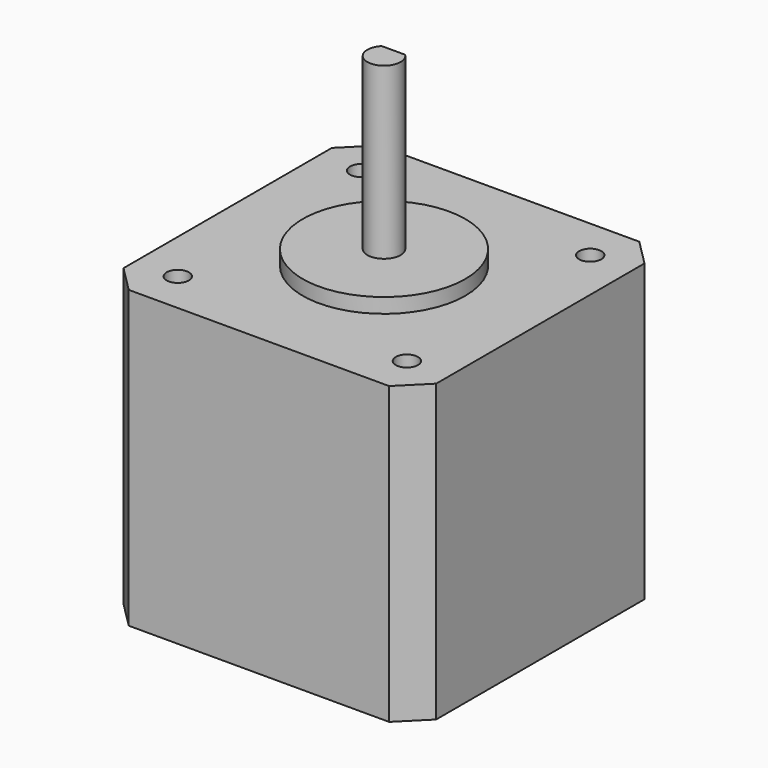
from build123d import *

# Parameters (mm, degrees)
PAD002_DEPTH   = 40
SKETCH006_R    = 1.5
HOLE_DEPTH     = 4.5
HOLE_TIPS_R    = 1.5
SKETCH002_R    = 1.5
HOLE001_DEPTH  = 4.5
HOLE001_TIPS_R = 1.5
SKETCH007_R    = 11
PAD003_DEPTH   = 2
PAD004_DEPTH   = 23


with BuildPart() as part:
    # Sketch005 → Pad002 (new body)
    with BuildSketch(Plane.XY):
        Polygon((-17.614466, 21.15), (17.614466, 21.15), (21.15, 17.614466), (21.15, -17.614466), (17.614466, -21.15), (-17.614466, -21.15), (-21.15, -17.614466), (-21.15, 17.614466), align=None)
    extrude(amount=PAD002_DEPTH)

    # Sketch006 (on Face10 of Pad002) → Hole (cut)
    with BuildSketch(Plane.XY.offset(40)):
        with Locations((15.5, 15.5)):
            Circle(SKETCH006_R)
        with Locations((-15.5, 15.5)):
            Circle(SKETCH006_R)
        with Locations((-15.5, -15.5)):
            Circle(SKETCH006_R)
        with Locations((15.5, -15.5)):
            Circle(SKETCH006_R)
    extrude(amount=-HOLE_DEPTH, mode=Mode.SUBTRACT)

    # Hole tips → Hole tip 1 section 0
    with BuildSketch(Plane.XY.offset(35.5), mode=Mode.PRIVATE) as hole_tip_1_s0:
        with Locations((15.5, 15.5)):
            Circle(HOLE_TIPS_R)
    loft([hole_tip_1_s0.sketch, Vertex(15.5, 15.5, 34.598709)], mode=Mode.SUBTRACT)

    # Hole tips → Hole tip 2 section 0
    with BuildSketch(Plane.XY.offset(35.5), mode=Mode.PRIVATE) as hole_tip_2_s0:
        with Locations((-15.5, 15.5)):
            Circle(HOLE_TIPS_R)
    loft([hole_tip_2_s0.sketch, Vertex(-15.5, 15.5, 34.598709)], mode=Mode.SUBTRACT)

    # Hole tips → Hole tip 3 section 0
    with BuildSketch(Plane.XY.offset(35.5), mode=Mode.PRIVATE) as hole_tip_3_s0:
        with Locations((-15.5, -15.5)):
            Circle(HOLE_TIPS_R)
    loft([hole_tip_3_s0.sketch, Vertex(-15.5, -15.5, 34.598709)], mode=Mode.SUBTRACT)

    # Hole tips → Hole tip 4 section 0
    with BuildSketch(Plane.XY.offset(35.5), mode=Mode.PRIVATE) as hole_tip_4_s0:
        with Locations((15.5, -15.5)):
            Circle(HOLE_TIPS_R)
    loft([hole_tip_4_s0.sketch, Vertex(15.5, -15.5, 34.598709)], mode=Mode.SUBTRACT)

    # Sketch002 → Hole001 (cut)
    with BuildSketch(Plane.XY):
        with Locations((-15.5, 15.5)):
            Circle(SKETCH002_R)
        with Locations((-15.5, -15.5)):
            Circle(SKETCH002_R)
        with Locations((15.5, -15.5)):
            Circle(SKETCH002_R)
        with Locations((15.5, 15.5)):
            Circle(SKETCH002_R)
    extrude(amount=HOLE001_DEPTH, mode=Mode.SUBTRACT)

    # Hole001 tips → Hole001 tip 1 section 0
    with BuildSketch(Plane.XY.offset(4.5), mode=Mode.PRIVATE) as hole001_tip_1_s0:
        with Locations((-15.5, 15.5)):
            Circle(HOLE001_TIPS_R)
    loft([hole001_tip_1_s0.sketch, Vertex(-15.5, 15.5, 5.401291)], mode=Mode.SUBTRACT)

    # Hole001 tips → Hole001 tip 2 section 0
    with BuildSketch(Plane.XY.offset(4.5), mode=Mode.PRIVATE) as hole001_tip_2_s0:
        with Locations((-15.5, -15.5)):
            Circle(HOLE001_TIPS_R)
    loft([hole001_tip_2_s0.sketch, Vertex(-15.5, -15.5, 5.401291)], mode=Mode.SUBTRACT)

    # Hole001 tips → Hole001 tip 3 section 0
    with BuildSketch(Plane.XY.offset(4.5), mode=Mode.PRIVATE) as hole001_tip_3_s0:
        with Locations((15.5, -15.5)):
            Circle(HOLE001_TIPS_R)
    loft([hole001_tip_3_s0.sketch, Vertex(15.5, -15.5, 5.401291)], mode=Mode.SUBTRACT)

    # Hole001 tips → Hole001 tip 4 section 0
    with BuildSketch(Plane.XY.offset(4.5), mode=Mode.PRIVATE) as hole001_tip_4_s0:
        with Locations((15.5, 15.5)):
            Circle(HOLE001_TIPS_R)
    loft([hole001_tip_4_s0.sketch, Vertex(15.5, 15.5, 5.401291)], mode=Mode.SUBTRACT)

    # Sketch007 (on Face5 of Hole001) → Pad003 (join)
    with BuildSketch(Plane.XY.offset(40)):
        Circle(SKETCH007_R)
    extrude(amount=PAD003_DEPTH)

    # Sketch008 (on Face27 of Pad003) → Pad004 (join)
    with BuildSketch(Plane.XY.offset(42)):
        with BuildLine():
            ThreePointArc((-1.581929, 1.6), (0, -2.25), (1.581929, 1.6))
            Line((-1.581929, 1.6), (1.581929, 1.6))
        make_face()
    extrude(amount=PAD004_DEPTH)


with BuildPart() as part_1:
    # Body001 placement: moved
    add(part.part.moved(Location((0, 0, -40))))


solid = part_1.part
